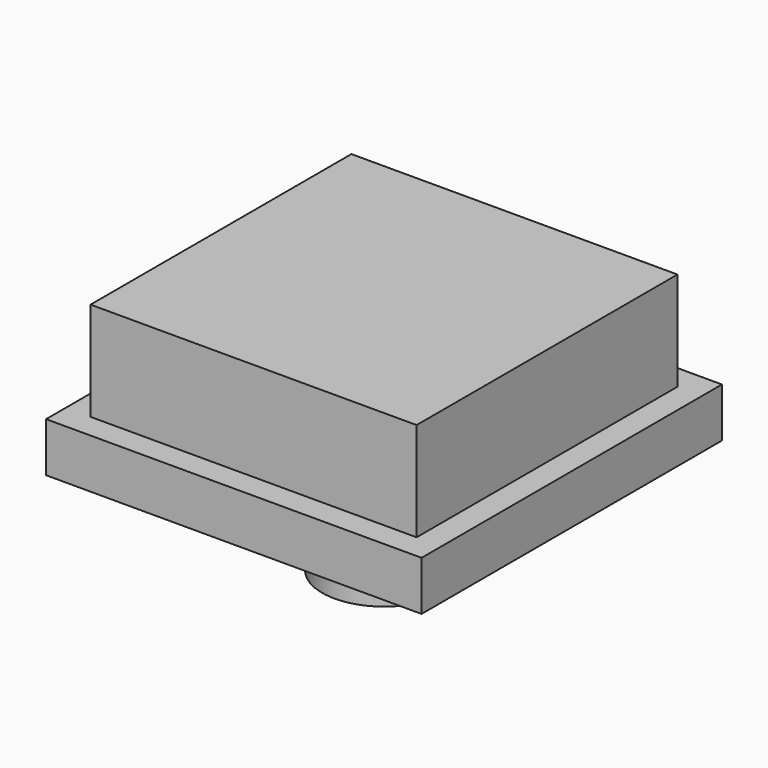
from build123d import *

# Parameters (mm, degrees)
SKETCH009_W  = 6.6
SKETCH009_H  = 6.6
PAD006_DEPTH = 3
SKETCH010_W  = 7.6
SKETCH010_H  = 7.6
PAD007_DEPTH = 1
SKETCH011_R  = 1.25
PAD008_DEPTH = 2


with BuildPart() as part:
    # Sketch009 → Pad006 (new body)
    with BuildSketch(Plane.XY):
        with Locations((29.2, 19)):
            Rectangle(SKETCH009_W, SKETCH009_H)
    extrude(amount=PAD006_DEPTH)

    # Sketch010 → Pad007 (join)
    with BuildSketch(Plane.XY):
        with Locations((29.2, 19)):
            Rectangle(SKETCH010_W, SKETCH010_H)
    extrude(amount=PAD007_DEPTH)

    # Sketch011 → Pad008 (join)
    with BuildSketch(Plane.XY):
        with Locations((29.2, 19)):
            Circle(SKETCH011_R)
    extrude(amount=-PAD008_DEPTH)


with BuildPart() as part_1:
    # Body004 placement: moved
    add(part.part.moved(Location((0, 0, 8.5))))


solid = part_1.part
